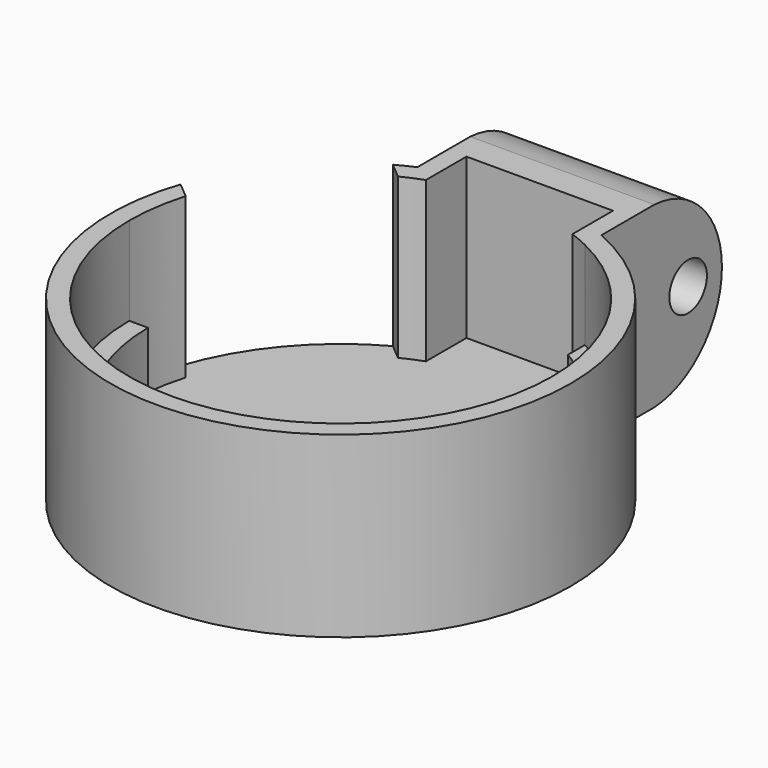
from build123d import *

# Parameters (mm, degrees)
F0_R     = 3.25
F1_DEPTH = 1
F2_DEPTH = 8.5
F3_DEPTH = 3.8
F4_R     = 1.25
F5_DEPTH = 9.8


with BuildPart() as f1:
    # F0 (on Top) → F1 (new body)
    with BuildSketch(Plane.XY):
        with BuildLine():
            ThreePointArc((-3.9, 10.5523694022), (0, 11.25), (3.9, 10.5523694022))
            Line((3.9, 10.5523694022), (3.9, 11.6126009145))
            ThreePointArc((3.9, 11.6126009145), (0, 12.25), (-3.9, 11.6126009145))
            Line((-3.9, 11.6126009145), (-3.9, 10.5523694022))
        make_face()
        with BuildLine():
            ThreePointArc((-3.9, 11.6126009145), (0, 12.25), (3.9, 11.6126009145))
            Line((3.9, 11.6126009145), (3.9, 13.25))
            Line((3.9, 13.25), (-3.9, 13.25))
            Line((-3.9, 13.25), (-3.9, 11.6126009145))
        make_face()
        with BuildLine():
            ThreePointArc((-5.0059832106, 10.0748514677), (-4.4593878595, 10.3284248518), (-3.9, 10.5523694022))
            Line((-3.9, 10.5523694022), (-3.9, 11.6126009145))
            ThreePointArc((-3.9, 11.6126009145), (-4.4042152746, 11.4308961947), (-4.9, 11.2273104526))
            ThreePointArc((-4.9, 11.2273104526), (-5.3725531584, 11.0090041584), (-5.835405231, 10.7708191791))
            Line((-5.835405231, 10.7708191791), (-5.0059832106, 10.0748514677))
        make_face()
        with BuildLine():
            Line((3.9, 13.25), (3.9, 11.6126009145))
            ThreePointArc((3.9, 11.6126009145), (4.4042152746, 11.4308961947), (4.9, 11.2273104526))
            Line((4.9, 11.2273104526), (4.9, 19.25))
            Line((4.9, 19.25), (-4.9, 19.25))
            Line((-4.9, 19.25), (-4.9, 11.2273104526))
            ThreePointArc((-4.9, 11.2273104526), (-4.4042152746, 11.4308961947), (-3.9, 11.6126009145))
            Line((-3.9, 11.6126009145), (-3.9, 13.25))
            Line((-3.9, 13.25), (3.9, 13.25))
        make_face()
        with BuildLine():
            ThreePointArc((4.9, 10.1268208239), (9.5311987704, 5.9765165439), (11.25, 0))
            ThreePointArc((11.25, 0), (0, -11.25), (-11.25, 0))
            ThreePointArc((-11.25, 0), (-11.1346768386, 1.6066958954), (-10.7910716977, 3.1804514796))
            Line((-10.7910716977, 3.1804514796), (-11.6204937182, 3.8764191911))
            ThreePointArc((-11.6204937182, 3.8764191911), (-1.9636002587, -12.0915993162), (12.25, 0))
            ThreePointArc((12.25, 0), (10.249085325, 6.7096013294), (4.9, 11.2273104526))
            ThreePointArc((4.9, 11.2273104526), (4.4042152746, 11.4308961947), (3.9, 11.6126009145))
            Line((3.9, 11.6126009145), (3.9, 10.5523694022))
            ThreePointArc((3.9, 10.5523694022), (4.4051416434, 10.3516775018), (4.9, 10.1268208239))
        make_face()
        with BuildLine():
            Line((-11.6204937182, 3.8764191911), (-10.7910716977, 3.1804514796))
            ThreePointArc((-10.7910716977, 3.1804514796), (-8.6179999851, 7.231360609), (-5.0059832106, 10.0748514677))
            Line((-5.0059832106, 10.0748514677), (-5.835405231, 10.7708191791))
            ThreePointArc((-5.835405231, 10.7708191791), (-9.3840444282, 7.8741482187), (-11.6204937182, 3.8764191911))
        make_face()
        with BuildLine():
            ThreePointArc((10.25, 0), (8.8115690998, 5.2362916267), (4.9, 9.0029161942))
            ThreePointArc((4.9, 9.0029161942), (-5.2362916267, 8.8115690998), (-10.25, 0))
            ThreePointArc((-10.25, 0), (0, -10.25), (10.25, 0))
        make_face()
        Circle(F0_R, mode=Mode.SUBTRACT)
        with BuildLine():
            Line((4.9, 9.0029161942), (4.9, 10.1268208239))
            ThreePointArc((4.9, 10.1268208239), (4.4051416434, 10.3516775018), (3.9, 10.5523694022))
            ThreePointArc((3.9, 10.5523694022), (0, 11.25), (-3.9, 10.5523694022))
            ThreePointArc((-3.9, 10.5523694022), (-4.4593878595, 10.3284248518), (-5.0059832106, 10.0748514677))
            ThreePointArc((-5.0059832106, 10.0748514677), (-8.6179999851, 7.231360609), (-10.7910716977, 3.1804514796))
            ThreePointArc((-10.7910716977, 3.1804514796), (-11.1346768386, 1.6066958954), (-11.25, 0))
            Line((-11.25, 0), (-10.25, 0))
            ThreePointArc((-10.25, 0), (-5.2362916267, 8.8115690998), (4.9, 9.0029161942))
        make_face()
        with BuildLine():
            ThreePointArc((-11.25, 0), (0, -11.25), (11.25, 0))
            ThreePointArc((11.25, 0), (9.5311987704, 5.9765165439), (4.9, 10.1268208239))
            Line((4.9, 10.1268208239), (4.9, 9.0029161942))
            ThreePointArc((4.9, 9.0029161942), (8.8115690998, 5.2362916267), (10.25, 0))
            ThreePointArc((10.25, 0), (0, -10.25), (-10.25, 0))
            Line((-10.25, 0), (-11.25, 0))
        make_face()
    extrude(amount=-F1_DEPTH)

    # F0 (on Top) → F2 (join)
    with BuildSketch(Plane.XY):
        with BuildLine():
            ThreePointArc((-5.0059832106, 10.0748514677), (-4.4593878595, 10.3284248518), (-3.9, 10.5523694022))
            Line((-3.9, 10.5523694022), (-3.9, 11.6126009145))
            ThreePointArc((-3.9, 11.6126009145), (-4.4042152746, 11.4308961947), (-4.9, 11.2273104526))
            ThreePointArc((-4.9, 11.2273104526), (-5.3725531584, 11.0090041584), (-5.835405231, 10.7708191791))
            Line((-5.835405231, 10.7708191791), (-5.0059832106, 10.0748514677))
        make_face()
        with BuildLine():
            Line((3.9, 13.25), (3.9, 11.6126009145))
            ThreePointArc((3.9, 11.6126009145), (4.4042152746, 11.4308961947), (4.9, 11.2273104526))
            Line((4.9, 11.2273104526), (4.9, 19.25))
            Line((4.9, 19.25), (-4.9, 19.25))
            Line((-4.9, 19.25), (-4.9, 11.2273104526))
            ThreePointArc((-4.9, 11.2273104526), (-4.4042152746, 11.4308961947), (-3.9, 11.6126009145))
            Line((-3.9, 11.6126009145), (-3.9, 13.25))
            Line((-3.9, 13.25), (3.9, 13.25))
        make_face()
        with BuildLine():
            ThreePointArc((4.9, 10.1268208239), (9.5311987704, 5.9765165439), (11.25, 0))
            ThreePointArc((11.25, 0), (0, -11.25), (-11.25, 0))
            ThreePointArc((-11.25, 0), (-11.1346768386, 1.6066958954), (-10.7910716977, 3.1804514796))
            Line((-10.7910716977, 3.1804514796), (-11.6204937182, 3.8764191911))
            ThreePointArc((-11.6204937182, 3.8764191911), (-1.9636002587, -12.0915993162), (12.25, 0))
            ThreePointArc((12.25, 0), (10.249085325, 6.7096013294), (4.9, 11.2273104526))
            ThreePointArc((4.9, 11.2273104526), (4.4042152746, 11.4308961947), (3.9, 11.6126009145))
            Line((3.9, 11.6126009145), (3.9, 10.5523694022))
            ThreePointArc((3.9, 10.5523694022), (4.4051416434, 10.3516775018), (4.9, 10.1268208239))
        make_face()
    extrude(amount=F2_DEPTH)

    # F0 (on Top) → F3 (join)
    with BuildSketch(Plane.XY):
        with BuildLine():
            ThreePointArc((-11.25, 0), (0, -11.25), (11.25, 0))
            ThreePointArc((11.25, 0), (9.5311987704, 5.9765165439), (4.9, 10.1268208239))
            Line((4.9, 10.1268208239), (4.9, 9.0029161942))
            ThreePointArc((4.9, 9.0029161942), (8.8115690998, 5.2362916267), (10.25, 0))
            ThreePointArc((10.25, 0), (0, -10.25), (-10.25, 0))
            Line((-10.25, 0), (-11.25, 0))
        make_face()
    extrude(amount=F3_DEPTH)

    # F4 (on face) → F5 (cut, through all)
    with BuildSketch(Plane.YZ.offset(4.9)):
        with BuildLine():
            ThreePointArc((14.75, 8.5), (17.9463721422, 7.0215630821), (19.25, 3.75))
            Line((19.25, 3.75), (19.25, 8.5))
            Line((19.25, 8.5), (14.75, 8.5))
        make_face()
        with BuildLine():
            ThreePointArc((19.25, 3.75), (17.9463721422, 0.4784369179), (14.75, -1))
            Line((14.75, -1), (19.25, -1))
            Line((19.25, -1), (19.25, 3.75))
        make_face()
        with Locations((17, 3.75)):
            Circle(F4_R)
    extrude(amount=-F5_DEPTH, mode=Mode.SUBTRACT)


solid = f1.part
